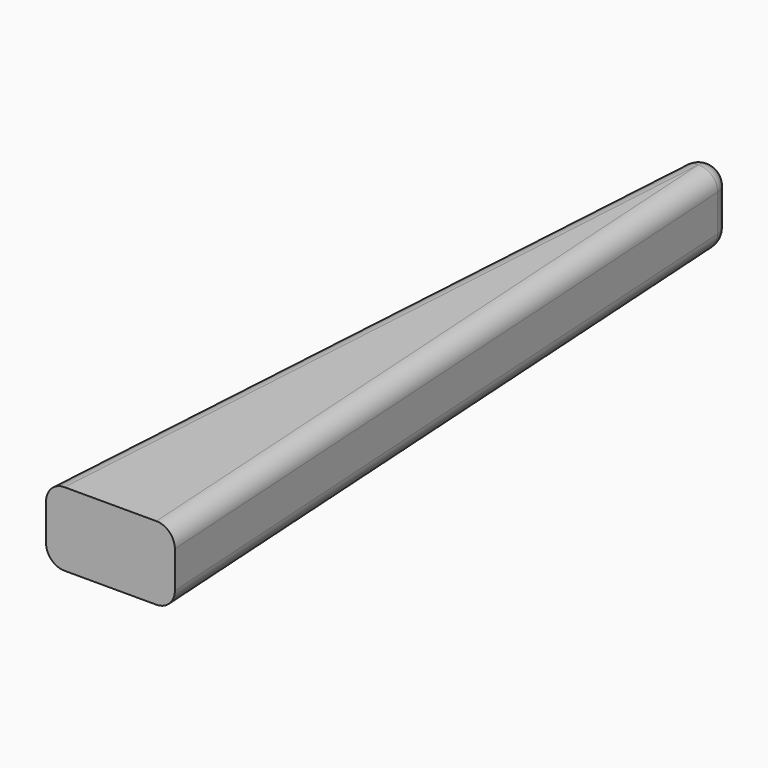
from build123d import *

# Parameters (mm, degrees)
F1_DEPTH = 4
F2_R     = 1


with BuildPart() as f1:
    # F0 (on Top) → F1 (new body)
    with BuildSketch(Plane.XY):
        with BuildLine():
            Line((-1, 40), (-3.5, 0))
            Line((-3.5, 0), (3.5, 0))
            Line((3.5, 0), (1, 40))
            ThreePointArc((1, 40), (0, 40.939451), (-1, 40))
        make_face()
    extrude(amount=F1_DEPTH)

    # F2
    f2_edges = [f1.edges().sort_by_distance(p)[0] for p in [
        (-2.25, 20, 4),
        (-2.25, 20, 0),
        (2.25, 20, 4),
        (2.25, 20, 0),
    ]]
    fillet(f2_edges, radius=F2_R)


solid = f1.part
